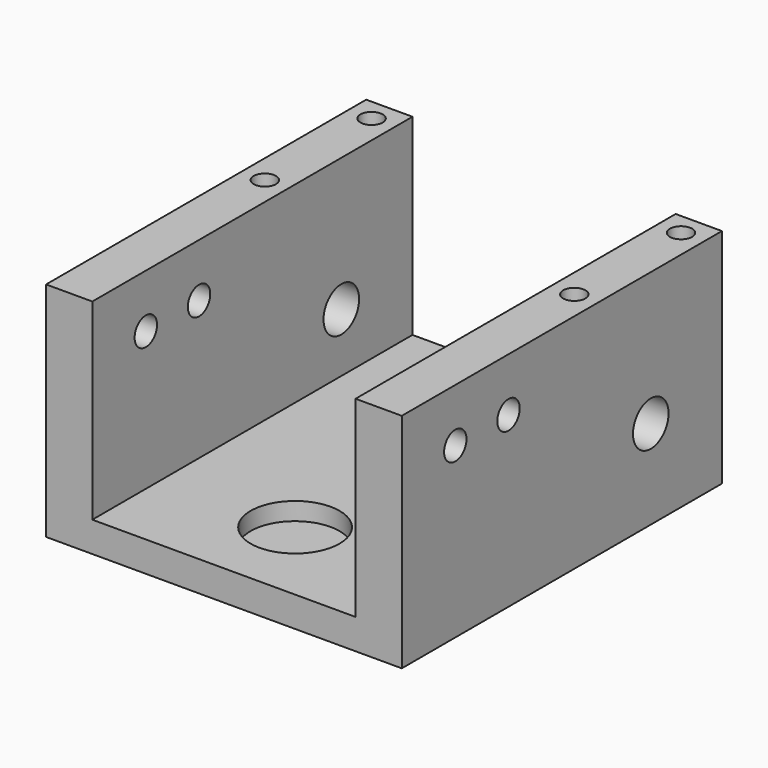
from build123d import *

# Parameters (mm, degrees)
F1_DEPTH = 57.15
F2_R     = 3.175
F3_DEPTH = 50.801
F4_R     = 6.35
F5_DEPTH = 2.54
F6_R     = 2
F7_DEPTH = 50.801
F8_R     = 1.5875
F9_DEPTH = 12.7


with BuildPart() as f1:
    # F0 (on Front) → F1 (new body)
    with BuildSketch(Plane.XZ):
        Polygon((-25.4, 0), (0, 0), (25.4, 0), (25.4, 31.75), (18.796, 31.75), (18.796, 4.318), (0, 4.318), (-18.796, 4.318), (-18.796, 31.75), (-25.4, 31.75), align=None)
    extrude(amount=F1_DEPTH)

    # F2 (on face) → F3 (cut, through all)
    with BuildSketch(Plane(origin=(-25.4, 0, 0), x_dir=(0, -1, 0), z_dir=(-1, 0, 0))):
        with Locations((12.7, 12.7)):
            Circle(F2_R)
    extrude(amount=-F3_DEPTH, mode=Mode.SUBTRACT)

    # F4 (on face) → F5 (cut)
    with BuildSketch(Plane.XY.offset(4.318)):
        with Locations((0, -44.45)):
            Circle(F4_R)
    extrude(amount=-F5_DEPTH, mode=Mode.SUBTRACT)

    # F6 (on face) → F7 (cut, through all)
    with BuildSketch(Plane(origin=(-25.4, 0, 0), x_dir=(0, -1, 0), z_dir=(-1, 0, 0))):
        with Locations((38.1, 24.13)):
            Circle(F6_R)
        with Locations((47.6, 24.13)):
            Circle(F6_R)
    extrude(amount=-F7_DEPTH, mode=Mode.SUBTRACT)

    # F8 (on face) → F9 (cut)
    with BuildSketch(Plane.XY.offset(31.75)):
        with Locations((-22.098, -3.175)):
            Circle(F8_R)
        with Locations((-22.098, -22.225)):
            Circle(F8_R)
        with Locations((22.098, -3.175)):
            Circle(F8_R)
        with Locations((22.098, -22.225)):
            Circle(F8_R)
    extrude(amount=-F9_DEPTH, mode=Mode.SUBTRACT)


solid = f1.part
